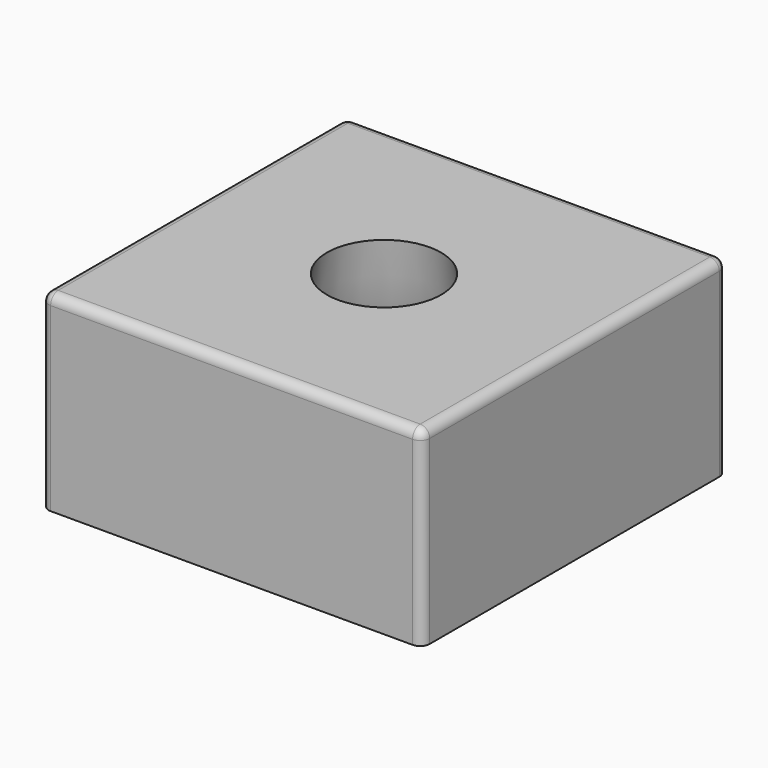
from build123d import *

# Parameters (mm, degrees)
F0_W     = 100
F0_H     = 100
F1_DEPTH = 50
F4_R     = 2.5


with BuildPart() as f1:
    # F0 (on Top) → F1 (new body)
    with BuildSketch(Plane.XY):
        Rectangle(F0_W, F0_H)
    extrude(amount=F1_DEPTH)

    # F2 (on Front) → F3 (revolve, cut)
    with BuildSketch(Plane.XZ):
        with BuildLine():
            add(Edge.make_bspline(
                [(-15, 50), (-16.1908632406, 41.6150700931), (-19.2172283884, 21.5781897555), (-33.004084781, 9.2584811498), (-39.3406604347, 0)],
                knots=[0, 0, 0, 0, 0.487806887, 1, 1, 1, 1], degree=3))
            Line((-39.3406604347, 0), (0, 0))
            Line((0, 0), (0, 50))
            Line((0, 50), (-15, 50))
        make_face()
    revolve(axis=Axis((0, 0, 25), (0, 0, 1)), mode=Mode.SUBTRACT)

    # F4
    f4_edges = [f1.edges().sort_by_distance(p)[0] for p in [
        (0, 50, 50),
        (50, 0, 50),
        (0, -50, 50),
        (-50, 0, 50),
        (-50, -50, 25),
        (50, -50, 25),
        (50, 50, 25),
        (-50, 50, 25),
    ]]
    fillet(f4_edges, radius=F4_R)


solid = f1.part
